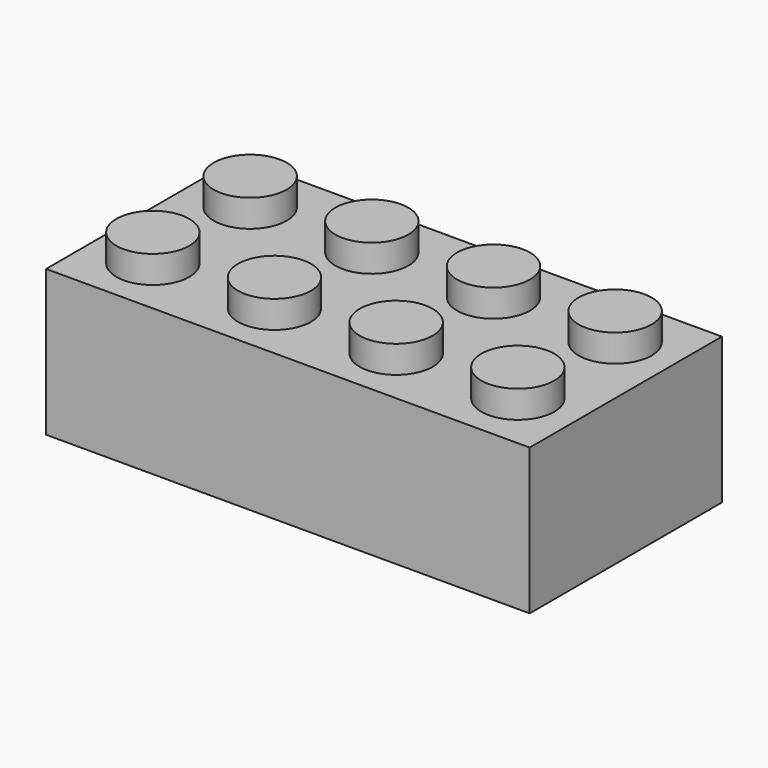
from build123d import *

# Parameters (mm, degrees)
SKETCH_W      = 31.8
SKETCH_H      = 15.8
PAD_DEPTH     = 9.6
SKETCH001_R   = 2.4
PAD001_DEPTH  = 1.8
SKETCH002_W   = 29.4
SKETCH002_H   = 13.4
SKETCH002_R   = 3.25
SKETCH002_R_2 = 2.3
POCKET_DEPTH  = 8.4
SKETCH003_W   = 0.6
SKETCH003_H   = 0.3
SKETCH003_W_2 = 0.3
SKETCH003_H_2 = 0.6
PAD002_DEPTH  = 8.4


with BuildPart() as part:
    # Sketch → Pad (new body)
    with BuildSketch(Plane.XY):
        Rectangle(SKETCH_W, SKETCH_H)
    extrude(amount=PAD_DEPTH)

    # Sketch001 (on Face6 of Pad) → Pad001 (join)
    with BuildSketch(Plane.XY.offset(9.6)):
        with Locations((-12, 4)):
            Circle(SKETCH001_R)
        with Locations((-4, 4)):
            Circle(SKETCH001_R)
        with Locations((4, 4)):
            Circle(SKETCH001_R)
        with Locations((12, 4)):
            Circle(SKETCH001_R)
        with Locations((12, -4)):
            Circle(SKETCH001_R)
        with Locations((4, -4)):
            Circle(SKETCH001_R)
        with Locations((-4, -4)):
            Circle(SKETCH001_R)
        with Locations((-12, -4)):
            Circle(SKETCH001_R)
    extrude(amount=PAD001_DEPTH)

    # Sketch002 (on Face4 of Pad001) → Pocket (cut)
    with BuildSketch(Plane(origin=(0, 0, 0), x_dir=(1, 0, 0), z_dir=(0, 0, -1))):
        Rectangle(SKETCH002_W, SKETCH002_H)
        Circle(SKETCH002_R, mode=Mode.SUBTRACT)
        with Locations((8, 0)):
            Circle(SKETCH002_R, mode=Mode.SUBTRACT)
        with Locations((-8, 0)):
            Circle(SKETCH002_R, mode=Mode.SUBTRACT)
        Circle(SKETCH002_R_2)
        with Locations((8, 0)):
            Circle(SKETCH002_R_2)
        with Locations((-8, 0)):
            Circle(SKETCH002_R_2)
    extrude(amount=-POCKET_DEPTH, mode=Mode.SUBTRACT)

    # Sketch003 (on Face19 of Pocket) → Pad002 (join)
    with BuildSketch(Plane(origin=(0, 0, 8.4), x_dir=(1, 0, 0), z_dir=(0, 0, -1))):
        with Locations((-12, 6.55)):
            Rectangle(SKETCH003_W, SKETCH003_H)
        with Locations((4, 6.55)):
            Rectangle(SKETCH003_W, SKETCH003_H)
        with Locations((-4, 6.55)):
            Rectangle(SKETCH003_W, SKETCH003_H)
        with Locations((12, 6.55)):
            Rectangle(SKETCH003_W, SKETCH003_H)
        with Locations((-14.55, 4)):
            Rectangle(SKETCH003_W_2, SKETCH003_H_2)
        with Locations((-14.55, -4)):
            Rectangle(SKETCH003_W_2, SKETCH003_H_2)
        with Locations((-12, -6.55)):
            Rectangle(SKETCH003_W, SKETCH003_H)
        with Locations((-4, -6.55)):
            Rectangle(SKETCH003_W, SKETCH003_H)
        with Locations((4, -6.55)):
            Rectangle(SKETCH003_W, SKETCH003_H)
        with Locations((12, -6.55)):
            Rectangle(SKETCH003_W, SKETCH003_H)
        with Locations((14.55, 4)):
            Rectangle(SKETCH003_W_2, SKETCH003_H_2)
        with Locations((14.55, -4)):
            Rectangle(SKETCH003_W_2, SKETCH003_H_2)
    extrude(amount=PAD002_DEPTH)


solid = part.part
